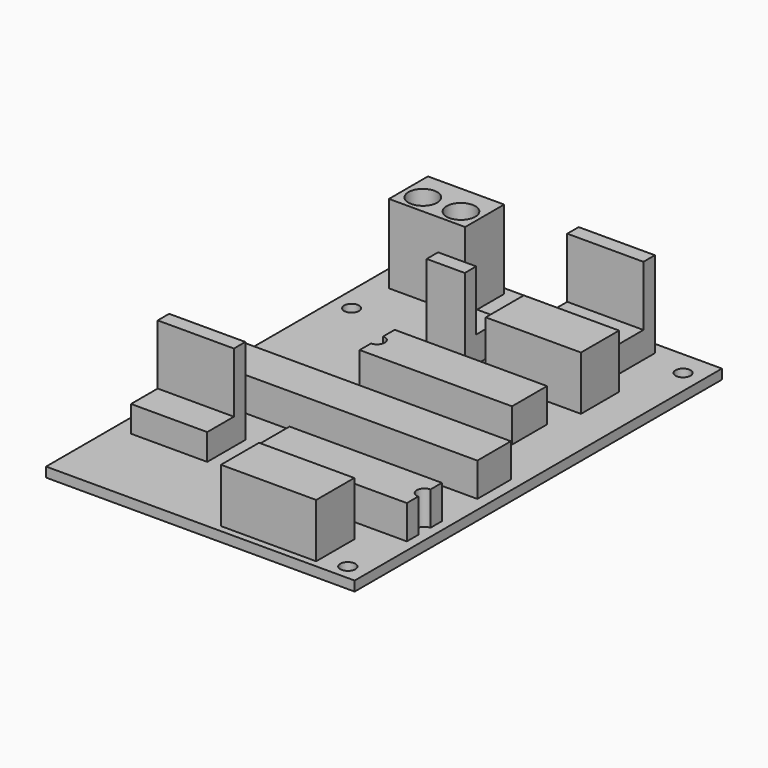
from build123d import *

# Parameters (mm, degrees)
F0_W     = 41.148
F0_H     = 61.214
F1_DEPTH = 1.3
F2_R     = 1
F3_DEPTH = 1.3
F4_DEPTH = 4.5
F2_W     = 10.16
F2_H     = 1.5257
F5_DEPTH = 10.5
F2_H_2   = 4.445
F2_W_2   = 5.08
F6_DEPTH = 3.5
F2_H_3   = 1.905
F7_DEPTH = 11.5
F2_W_3   = 12.7
F8_DEPTH = 7.2


with BuildPart() as f1:
    # F0 (on Top) → F1 (new body)
    with BuildSketch(Plane.XY):
        Rectangle(F0_W, F0_H)
    extrude(amount=F1_DEPTH)

    # F2 (on face) → F3 (cut, through all)
    with BuildSketch(Plane.XY.offset(1.3)):
        with Locations((-18.034, 17.145)):
            Circle(F2_R)
        with Locations((18.034, 27.305)):
            Circle(F2_R)
        with Locations((18.034, -28.575)):
            Circle(F2_R)
    extrude(amount=-F3_DEPTH, mode=Mode.SUBTRACT)

    # F2 (on face) → F4 (join)
    with BuildSketch(Plane.XY.offset(1.3)):
        with BuildLine():
            ThreePointArc((-18.034, -4.826), (-17.399, -5.461), (-18.034, -6.096))
            Line((-18.034, -6.096), (-18.034, -8.255))
            Line((-18.034, -8.255), (19.05, -8.255))
            Line((19.05, -8.255), (19.05, -2.667))
            Line((19.05, -2.667), (-18.034, -2.667))
            Line((-18.034, -2.667), (-18.034, -4.826))
        make_face()
        with BuildLine():
            Line((14.224, 3.556), (14.224, 9.398))
            Line((14.224, 9.398), (-6.096, 9.398))
            Line((-6.096, 9.398), (-6.096, 7.493))
            ThreePointArc((-6.096, 7.493), (-5.08, 6.477), (-6.096, 5.461))
            Line((-6.096, 5.461), (-6.096, 3.556))
            Line((-6.096, 3.556), (14.224, 3.556))
        make_face()
        with BuildLine():
            Line((-1.016, -14.478), (-1.016, -20.32))
            Line((-1.016, -20.32), (19.304, -20.32))
            Line((19.304, -20.32), (19.304, -18.415))
            ThreePointArc((19.304, -18.415), (18.288, -17.399), (19.304, -16.383))
            Line((19.304, -16.383), (19.304, -14.478))
            Line((19.304, -14.478), (-1.016, -14.478))
        make_face()
    extrude(amount=F4_DEPTH)

    # F2 (on face) → F5 (join)
    with BuildSketch(Plane.XY.offset(1.3)):
        with Locations((-12.7211, 28.81415)):
            Rectangle(F2_W, F2_H)
        Polygon((-7.6411, 28.0513), (-17.8011, 28.0513), (-17.8011, 27.5683), (-17.8011, 23.5715), (-17.8011, 23.0791), (-7.6411, 23.0791), (-7.6411, 23.5715), (-7.6411, 27.5683), align=None)
        with BuildLine():
            ThreePointArc((-15.2611, 27.467), (-13.3461, 25.552), (-15.2611, 23.637))
            ThreePointArc((-15.2611, 23.637), (-17.1761, 25.552), (-15.2611, 27.467))
        make_face(mode=Mode.SUBTRACT)
        with BuildLine():
            ThreePointArc((-10.1811, 27.467), (-8.2661, 25.552), (-10.1811, 23.637))
            ThreePointArc((-10.1811, 23.637), (-12.0961, 25.552), (-10.1811, 27.467))
        make_face(mode=Mode.SUBTRACT)
    extrude(amount=F5_DEPTH)

    # F2 (on face) → F6 (join)
    with BuildSketch(Plane.XY.offset(1.3)):
        with Locations((7.874, 24.8285)):
            Rectangle(F2_W, F2_H_2)
        with Locations((-2.54, 17.5895)):
            Rectangle(F2_W_2, F2_H_2)
        with Locations((-13.208, -17.0815)):
            Rectangle(F2_W, F2_H_2)
    extrude(amount=F6_DEPTH)

    # F2 (on face) → F7 (join)
    with BuildSketch(Plane.XY.offset(1.3)):
        with Locations((7.874, 28.0035)):
            Rectangle(F2_W, F2_H_3)
        with Locations((-2.54, 14.4145)):
            Rectangle(F2_W_2, F2_H_3)
        with Locations((-13.208, -13.9065)):
            Rectangle(F2_W, F2_H_3)
    extrude(amount=F7_DEPTH)

    # F2 (on face) → F8 (join)
    with BuildSketch(Plane.XY.offset(1.3)):
        with Locations((9.144, 15.6845)):
            Rectangle(F2_W_3, F2_H_2)
        with Locations((9.144, 18.8595)):
            Rectangle(F2_W_3, F2_H_3)
        with Locations((8.382, -25.5905)):
            Rectangle(F2_W_3, F2_H_2)
        with Locations((8.382, -28.7655)):
            Rectangle(F2_W_3, F2_H_3)
    extrude(amount=F8_DEPTH)


solid = f1.part
